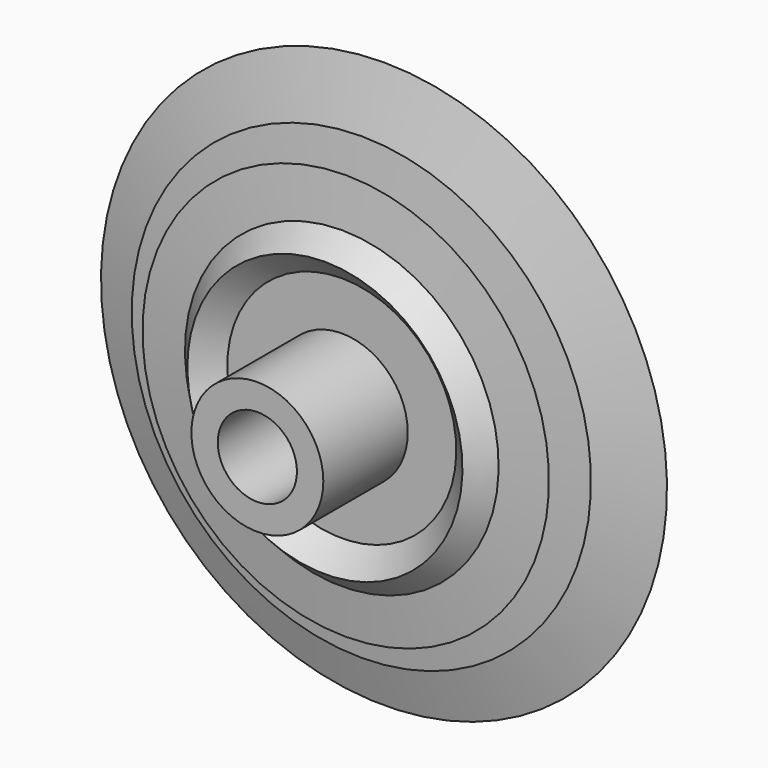
from build123d import *

# Parameters (mm, degrees)
F0_R     = 15.875
F0_R_2   = 9.525
F1_DEPTH = 25.4
F4_DEPTH = 50.8
F5_DEPTH = 25.4


with BuildPart() as f1:
    # F0 (on Front) → F1 (new body)
    with BuildSketch(Plane.XZ):
        Circle(F0_R)
        Circle(F0_R_2, mode=Mode.SUBTRACT)
    extrude(amount=F1_DEPTH)

    # F2 (on Right) → F3 (revolve)
    with BuildSketch(Plane.YZ):
        Polygon((-25.4, 27.556808), (-25.4, 15.875), (-12.7, 15.875), (-12.7, 42.56691), (-19.509828, 42.56691), (-20.829493, 42.56691), (-25.4, 37.756736), (-25.4, 33.107586), align=None)
        Polygon((-12.7, 42.56691), (-12.7, 15.875), (0, 15.875), (0, 27.556808), (0, 33.107586), (0, 37.756736), (-1.200963, 48.91691), (-4.570507, 42.56691), (-5.890172, 42.56691), align=None)
        Polygon((0, 33.107586), (0, 27.556808), (5.08, 33.107586), align=None)
        Polygon((0, 33.107586), (5.08, 33.107586), (0, 37.756736), align=None)
        Polygon((-30.48, 33.107586), (-25.4, 27.556808), (-25.4, 33.107586), align=None)
        Polygon((-30.48, 33.107586), (-25.4, 33.107586), (-25.4, 37.756736), align=None)
        Polygon((-24.199037, 48.91691), (-25.4, 37.756736), (-20.829493, 42.56691), align=None)
        Polygon((-20.829493, 42.56691), (-19.509828, 42.56691), (-19.509828, 55.26691), align=None)
        Polygon((-19.509828, 42.56691), (-12.7, 42.56691), (-12.7, 68.114896), align=None)
        Polygon((-12.7, 68.114896), (-12.7, 42.56691), (-5.890172, 42.56691), align=None)
        Polygon((-5.890172, 55.26691), (-5.890172, 42.56691), (-4.570507, 42.56691), align=None)
    revolve(axis=Axis((0, 0, 0), (0, 1, 0)))

    # F0 (on Front) → F4 (join)
    with BuildSketch(Plane.XZ):
        Circle(F0_R)
        Circle(F0_R_2, mode=Mode.SUBTRACT)
    extrude(amount=F4_DEPTH)

    # F0 (on Front) → F5 (join)
    with BuildSketch(Plane.XZ):
        Circle(F0_R)
        Circle(F0_R_2, mode=Mode.SUBTRACT)
    extrude(amount=-F5_DEPTH)


solid = f1.part
